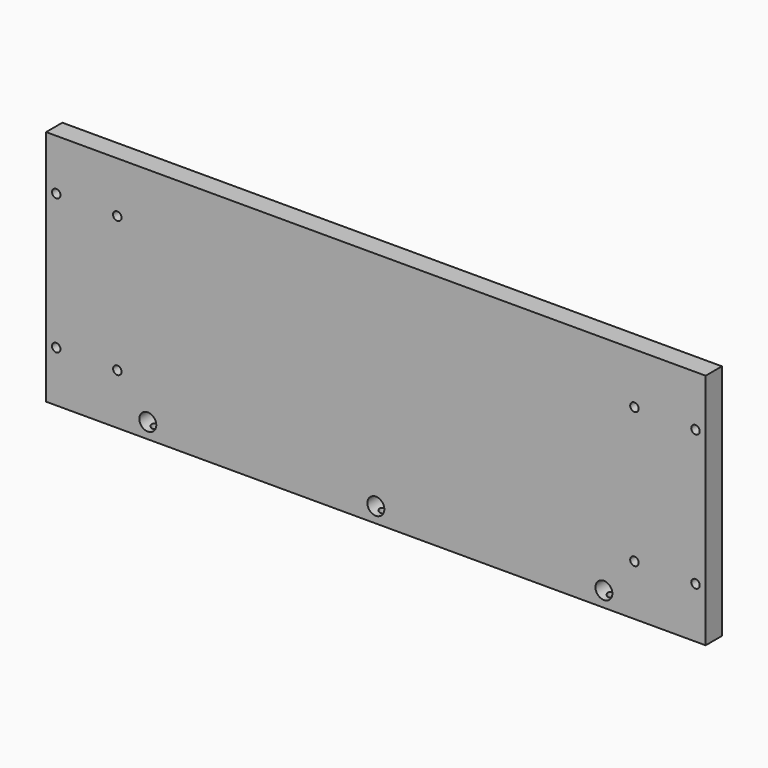
from build123d import *

# Parameters (mm, degrees)
F0_W     = 389
F0_H     = 140
F0_R     = 5
F0_R_2   = 2.5
F1_DEPTH = 12
F2_R     = 2.5
F3_DEPTH = 25


with BuildPart() as f1:
    # F0 (on Front) → F1 (new body)
    with BuildSketch(Plane.XZ):
        Rectangle(F0_W, F0_H)
        with Locations((-134.5, -61)):
            Circle(F0_R, mode=Mode.SUBTRACT)
        with Locations((-188.5, -40)):
            Circle(F0_R_2, mode=Mode.SUBTRACT)
        with Locations((-152.5, -40)):
            Circle(F0_R_2, mode=Mode.SUBTRACT)
        with Locations((0, -61)):
            Circle(F0_R, mode=Mode.SUBTRACT)
        with Locations((134.5, -61)):
            Circle(F0_R, mode=Mode.SUBTRACT)
        with Locations((152.5, -40)):
            Circle(F0_R_2, mode=Mode.SUBTRACT)
        with Locations((188.5, -40)):
            Circle(F0_R_2, mode=Mode.SUBTRACT)
        with Locations((-188.5, 40)):
            Circle(F0_R_2, mode=Mode.SUBTRACT)
        with Locations((-152.5, 40)):
            Circle(F0_R_2, mode=Mode.SUBTRACT)
        with Locations((152.5, 40)):
            Circle(F0_R_2, mode=Mode.SUBTRACT)
        with Locations((188.5, 40)):
            Circle(F0_R_2, mode=Mode.SUBTRACT)
    extrude(amount=F1_DEPTH)

    # F2 (on face) → F3 (cut)
    with BuildSketch(Plane(origin=(0, 0, -70), x_dir=(1, 0, 0), z_dir=(0, 0, -1))):
        with Locations((0, 6)):
            Circle(F2_R)
        with Locations((134.5, 6)):
            Circle(F2_R)
        with Locations((-134.5, 6)):
            Circle(F2_R)
    extrude(amount=-F3_DEPTH, mode=Mode.SUBTRACT)


solid = f1.part
